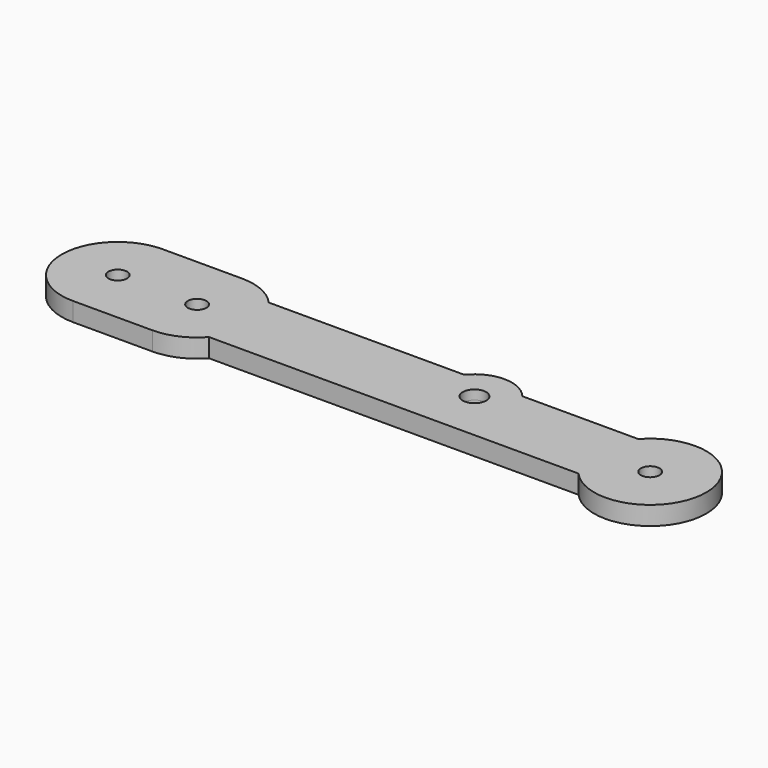
from build123d import *

# Parameters (mm, degrees)
F0_R     = 6.35
F0_R_2   = 7.9375
F1_DEPTH = 6.35
F2_R     = 11.1125
F3_DEPTH = 3.175


with BuildPart() as f1:
    # F0 (on Top) → F1 (new body, symmetric)
    with BuildSketch(Plane.XY):
        with BuildLine():
            ThreePointArc((-120.65, -38.1), (-105.0957401333, -34.7803824016), (-92.2519366858, -25.4))
            ThreePointArc((-92.2519366858, -25.4), (-82.55, 0), (-92.2519366858, 25.4))
            ThreePointArc((-92.2519366858, 25.4), (-105.0957401333, 34.7803824016), (-120.65, 38.1))
            Line((-120.65, 38.1), (-174.625, 38.1))
            ThreePointArc((-174.625, 38.1), (-190.1792598667, 34.7803824016), (-203.0230633142, 25.4))
            ThreePointArc((-203.0230633142, 25.4), (-210.2169668893, 13.5949215867), (-212.725, -7.2e-08))
            ThreePointArc((-212.725, -7.2e-08), (-210.2169668636, -13.594921654), (-203.0230633142, -25.4))
            ThreePointArc((-203.0230633142, -25.4), (-190.1792598667, -34.7803824016), (-174.625, -38.1))
            Line((-174.625, -38.1), (-120.65, -38.1))
        make_face()
        with Locations((-174.625, 0)):
            Circle(F0_R, mode=Mode.SUBTRACT)
        with Locations((-120.65, 0)):
            Circle(F0_R, mode=Mode.SUBTRACT)
        with BuildLine():
            Line((-92.2519366858, -25.4), (158.9269366858, -25.4))
            ThreePointArc((158.9269366858, -25.4), (149.225, 0), (158.9269366858, 25.4))
            Line((158.9269366858, 25.4), (80.0710946124, 25.4))
            ThreePointArc((80.0710946124, 25.4), (84.2698408134, 17.8971594032), (85.725, 9.4234))
            ThreePointArc((85.725, 9.4234), (51.8512405968, -14.5214408134), (40.5789053876, 25.4))
            Line((40.5789053876, 25.4), (-92.2519366858, 25.4))
            ThreePointArc((-92.2519366858, 25.4), (-82.55, 0), (-92.2519366858, -25.4))
        make_face()
        with BuildLine():
            ThreePointArc((158.9269366858, 25.4), (149.225, 0), (158.9269366858, -25.4))
            ThreePointArc((158.9269366858, -25.4), (200.9199216204, -35.5919668765), (225.425, 0))
            ThreePointArc((225.425, 0), (200.9199216204, 35.5919668765), (158.9269366858, 25.4))
        make_face()
        with Locations((187.325, 0)):
            Circle(F0_R, mode=Mode.SUBTRACT)
        with BuildLine():
            ThreePointArc((85.725, 9.4234), (84.2698408134, 17.8971594032), (80.0710946124, 25.4))
            Line((80.0710946124, 25.4), (40.5789053876, 25.4))
            ThreePointArc((40.5789053876, 25.4), (51.8512405968, -14.5214408134), (85.725, 9.4234))
        make_face()
        with Locations((60.325, 9.4234)):
            Circle(F0_R_2, mode=Mode.SUBTRACT)
        with BuildLine():
            Line((40.5789053876, 25.4), (80.0710946124, 25.4))
            ThreePointArc((80.0710946124, 25.4), (60.325, 34.8234), (40.5789053876, 25.4))
        make_face()
    extrude(amount=F1_DEPTH, both=True)

    # F2 (on face) → F3 (cut)
    with BuildSketch(Plane(origin=(0, 0, -6.35), x_dir=(1, 0, 0), z_dir=(0, 0, -1))):
        with Locations((-174.625, 0)):
            Circle(F2_R)
    extrude(amount=-F3_DEPTH, mode=Mode.SUBTRACT)


solid = f1.part
